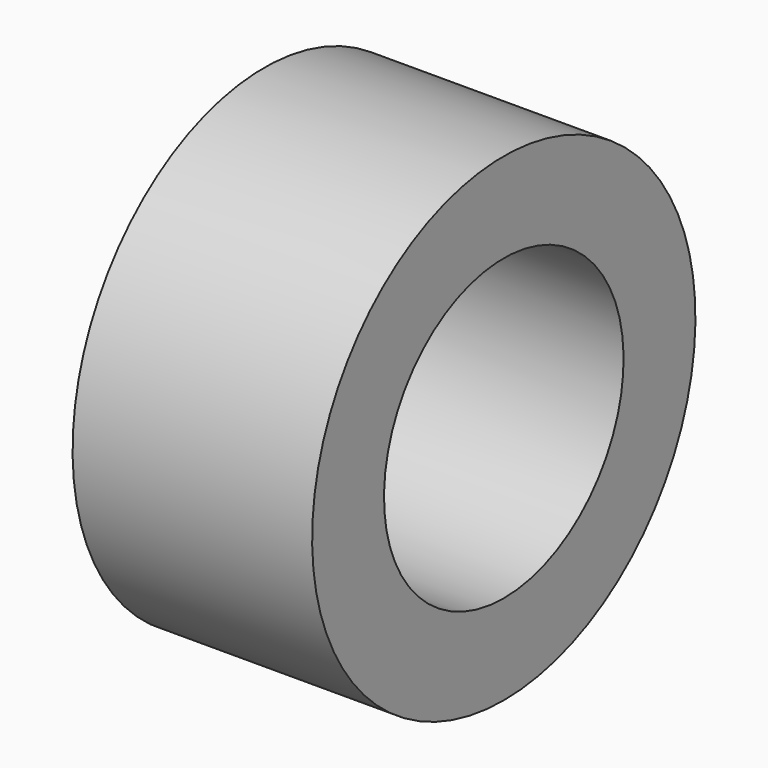
from build123d import *

# Parameters (mm, degrees)
CYLINDER014_R     = 2.5
CYLINDER014_DEPTH = 10
CYLINDER015_R     = 4
CYLINDER015_DEPTH = 4


with BuildPart() as cylinder002:
    # Cylinder014 → Cylinder014 (new body)
    with BuildSketch(Plane(origin=(23.5, -39, -22), x_dir=(0, 0, -1), z_dir=(1, 0, 0))):
        Circle(CYLINDER014_R)
    extrude(amount=CYLINDER014_DEPTH)


with BuildPart() as obj1:
    # Cylinder015 → Cylinder015 (new body)
    with BuildSketch(Plane(origin=(26.5, -39, -22), x_dir=(0, 0, -1), z_dir=(1, 0, 0))):
        Circle(CYLINDER015_R)
    extrude(amount=CYLINDER015_DEPTH)

    # Cut008: cut Cylinder002
    add(cylinder002.part, mode=Mode.SUBTRACT)


with BuildPart() as obj1_1:
    # Cut008 placement: moved
    add(obj1.part.moved(Location((1, 60, 2.5))))


solid = obj1_1.part
